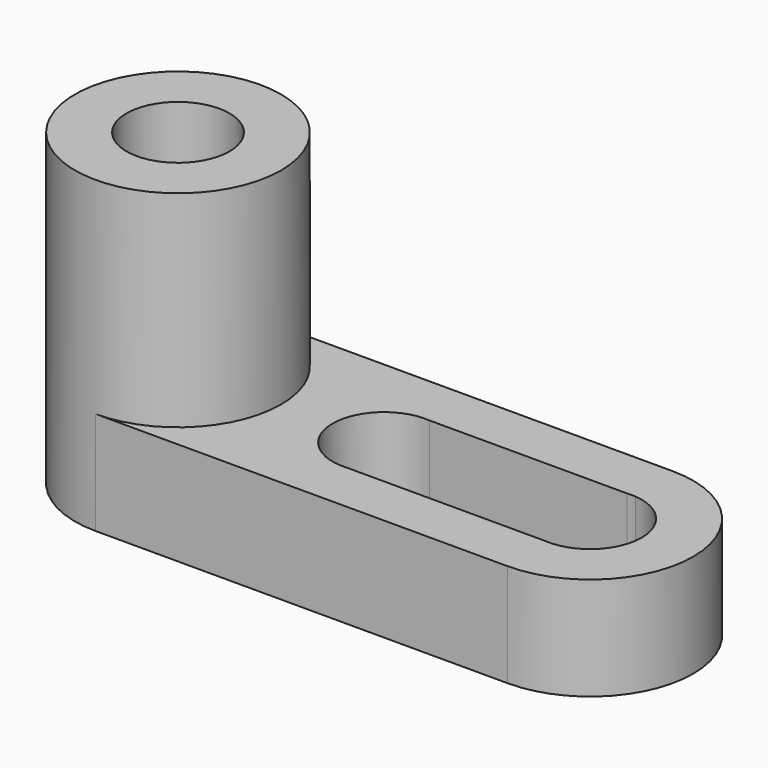
from build123d import *

# Parameters (mm, degrees)
F0_W     = 50.8
F0_H     = 25.4
F1_DEPTH = 12.7
F2_R     = 12.7
F3_DEPTH = 25.4
F4_R     = 6.35
F5_DEPTH = 25.4
F7_DEPTH = 12.7


with BuildPart() as f1:
    # F0 (on Top) → F1 (new body)
    with BuildSketch(Plane.XY):
        with Locations((-18.8566240436, 44.6426421404)):
            Rectangle(F0_W, F0_H)
        with BuildLine():
            Line((-44.2566240436, 31.9426421404), (-44.2566240436, 57.3426421404))
            ThreePointArc((-44.2566240436, 57.3426421404), (-56.9566240436, 44.6426421404), (-44.2566240436, 31.9426421404))
        make_face()
        with BuildLine():
            ThreePointArc((6.5433759564, 31.9426421404), (19.2433759564, 44.6426421404), (6.5433759564, 57.3426421404))
            Line((6.5433759564, 57.3426421404), (6.5433759564, 31.9426421404))
        make_face()
    extrude(amount=F1_DEPTH)

    # F2 (on face) → F3 (join)
    with BuildSketch(Plane.XY.offset(12.7)):
        with Locations((-44.2566240436, 44.6426421404)):
            Circle(F2_R)
    extrude(amount=F3_DEPTH)

    # F4 (on face) → F5 (cut)
    with BuildSketch(Plane.XY.offset(38.1)):
        with Locations((-44.2566240436, 44.6426421404)):
            Circle(F4_R)
    extrude(amount=-F5_DEPTH, mode=Mode.SUBTRACT)

    # F6 (on face) → F7 (cut)
    with BuildSketch(Plane.XY.offset(12.7)):
        with BuildLine():
            ThreePointArc((7.0575587453, 38.3134940097), (11.2117568701, 40.3381422106), (12.8933759564, 44.6426421404))
            ThreePointArc((12.8933759564, 44.6426421404), (11.2117568701, 48.9471420701), (7.0575587453, 50.971790271))
            Line((7.0575587453, 50.971790271), (7.0575587453, 38.3134940097))
        make_face()
        with BuildLine():
            Line((6.0291931675, 50.971790271), (7.0575587453, 50.971790271))
            ThreePointArc((7.0575587453, 50.971790271), (6.5433759564, 50.9926421404), (6.0291931675, 50.971790271))
        make_face()
        with BuildLine():
            Line((7.0575587453, 38.3134940097), (7.0575587453, 50.971790271))
            Line((7.0575587453, 50.971790271), (6.0291931675, 50.971790271))
            ThreePointArc((6.0291931675, 50.971790271), (0.1933759564, 44.6426421404), (6.0291931675, 38.3134940097))
            Line((6.0291931675, 38.3134940097), (7.0575587453, 38.3134940097))
        make_face()
        with BuildLine():
            ThreePointArc((6.0291931675, 38.3134940097), (6.5433759564, 38.2926421404), (7.0575587453, 38.3134940097))
            Line((7.0575587453, 38.3134940097), (6.0291931675, 38.3134940097))
        make_face()
        with BuildLine():
            ThreePointArc((6.0291931675, 38.3134940097), (0.1933759564, 44.6426421404), (6.0291931675, 50.971790271))
            Line((6.0291931675, 50.971790271), (-18.3424412547, 50.971790271))
            ThreePointArc((-18.3424412547, 50.971790271), (-14.1882431299, 48.9471420701), (-12.5066240436, 44.6426421404))
            ThreePointArc((-12.5066240436, 44.6426421404), (-14.1882431299, 40.3381422106), (-18.3424412547, 38.3134940097))
            Line((-18.3424412547, 38.3134940097), (6.0291931675, 38.3134940097))
        make_face()
        with BuildLine():
            Line((-18.3424412547, 38.3134940097), (-18.3424412547, 50.971790271))
            ThreePointArc((-18.3424412547, 50.971790271), (-25.2066240436, 44.6426421404), (-18.3424412547, 38.3134940097))
        make_face()
        with BuildLine():
            ThreePointArc((-12.5066240436, 44.6426421404), (-14.1882431299, 48.9471420701), (-18.3424412547, 50.971790271))
            Line((-18.3424412547, 50.971790271), (-18.3424412547, 38.3134940097))
            ThreePointArc((-18.3424412547, 38.3134940097), (-14.1882431299, 40.3381422106), (-12.5066240436, 44.6426421404))
        make_face()
    extrude(amount=-F7_DEPTH, mode=Mode.SUBTRACT)


solid = f1.part
